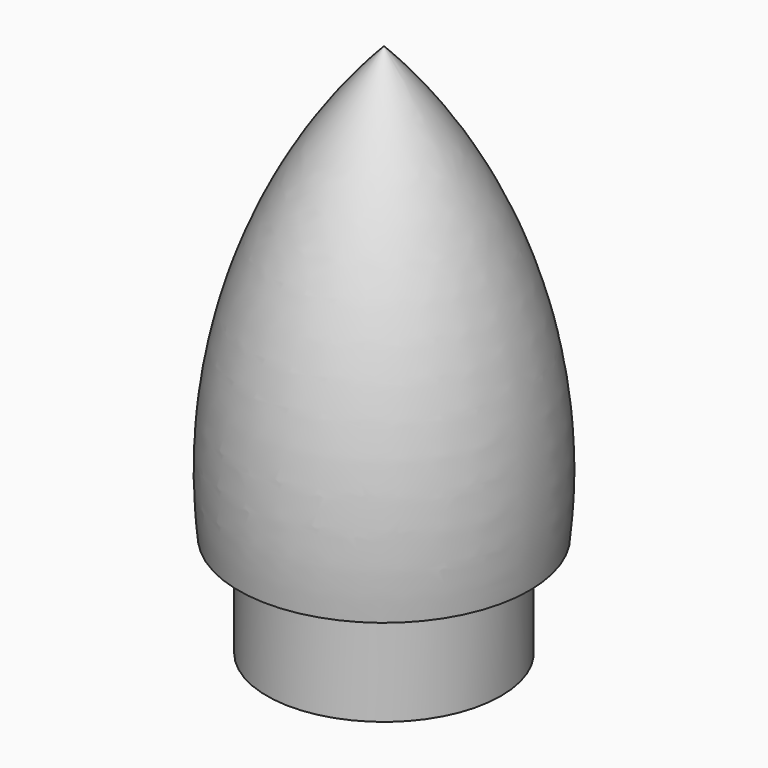
from build123d import *


with BuildPart() as f1:
    # F0 (on Front) → F1 (revolve)
    with BuildSketch(Plane.XZ):
        with BuildLine():
            Line((0, 91.250416), (0, 88.9))
            ThreePointArc((0, 88.9), (19.0794, 56.434019), (23.3998, 19.025495))
            Line((23.3998, 19.025495), (18.3998, 19.025495))
            Line((18.3998, 19.025495), (18.3998, 0))
            Line((18.3998, 0), (20, 0))
            Line((20, 0), (20, 17.425295))
            Line((20, 17.425295), (24.845907, 17.425295))
            ThreePointArc((24.845907, 17.425295), (20.552556, 57.073881), (0, 91.250416))
        make_face()
    revolve(axis=Axis((0, 0, 44.45), (0, 0, 1)))


solid = f1.part
